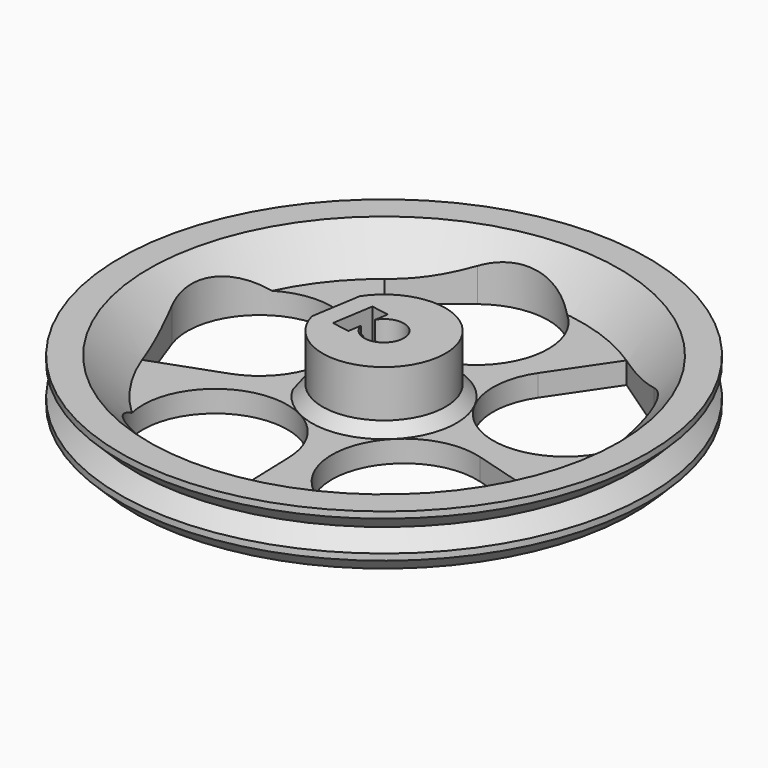
from build123d import *

# Parameters (mm, degrees)
PAD_DEPTH              = 2.5
CYLINDER001_R          = 1.75
CYLINDER001_DEPTH      = 10
CYLINDER001_ROLL_ANGLE = 90
BOX_W                  = 6
BOX_H                  = 3
BOX_DEPTH              = 7.5
SKETCH003_R            = 2.75
PAD001_DEPTH           = 8
CHAMFER_SIZE           = 1.5
POCKET_DEPTH           = 218.644926
POLARPATTERN_COUNT     = 5


with BuildPart() as captive_nut:
    # Sketch002 → Pad (new body)
    with BuildSketch(Plane.XZ):
        Polygon((-2.875, 5), (2.875, 5), (2.875, -1.659882), (0, -3.319764), (-2.875, -1.659882), align=None)
    extrude(amount=PAD_DEPTH)


with BuildPart() as captive_nut_1:
    # Clone placement: moved
    add(captive_nut.part.moved(Location((0, -3.75, 2))))


with BuildPart() as captive_nut_screw_fusion:
    # Cylinder001 → Cylinder001 (new body)
    with BuildSketch(Plane.XY):
        Circle(CYLINDER001_R)
    extrude(amount=CYLINDER001_DEPTH)


with BuildPart() as captive_nut_screw_fusion_1:
    # Cylinder001 roll: moved
    add(captive_nut_screw_fusion.part.rotate(Axis((0, 0, 0), (1, 0, 0)), CYLINDER001_ROLL_ANGLE))


with BuildPart() as captive_nut_screw_fusion_2:
    # Cylinder001 placement: moved
    add(captive_nut_screw_fusion_1.part.moved(Location((0, 0, 2))))

    # Fusion: union captive-nut
    add(captive_nut_1.part)


with BuildPart() as captive_nut_screw_fusion_3:
    # Fusion placement: moved
    add(captive_nut_screw_fusion_2.part.moved(Location((0, 1.2, 0))))


with BuildPart() as shaft_recess_cube:
    # Box → Box (new body)
    with BuildSketch(Plane(origin=(-3, 1.625, -3), x_dir=(1, 0, 0), z_dir=(0, 0, 1))):
        with Locations((3, 1.5)):
            Rectangle(BOX_W, BOX_H)
    extrude(amount=BOX_DEPTH)


with BuildPart() as polarpattern:
    # Sketch → Revolution (revolve)
    with BuildSketch(Plane.XZ):
        Polygon((0, -2), (27.5, -2), (32.5, 3), (36.5, 3), (36.5, 2.12132), (34.37868, 0), (36.5, -2.12132), (36.5, -3), (34.5, -5), (0, -5), align=None)
    revolve(axis=Axis((0, 0, 0), (0, 0, 1)))

    # Sketch003 → Pad001 (new body)
    with BuildSketch(Plane(origin=(0, 0, -2), x_dir=(-1, 0, 0), z_dir=(0, 0, 1))):
        with BuildLine():
            ThreePointArc((-3.49106, 7.75), (0, -8.5), (3.49106, 7.75))
            Line((3.49106, 7.75), (-3.49106, 7.75))
        make_face()
        Circle(SKETCH003_R, mode=Mode.SUBTRACT)
    extrude(amount=PAD001_DEPTH)

    # Fusion001: union shaft-recess-cube
    add(shaft_recess_cube.part)

    # Cut: cut captive-nut-screw-fusion
    add(captive_nut_screw_fusion_3.part, mode=Mode.SUBTRACT)

    # Chamfer
    chamfer_edges = [polarpattern.edges().sort_by_distance(p)[0] for p in [
        (0, 8.5, -2),
    ]]
    chamfer(chamfer_edges, length=CHAMFER_SIZE)

    # Sketch004 → Pocket (cut, through all)
    with BuildSketch(Plane(origin=(0, 0, -5), x_dir=(1, 0, 0), z_dir=(0, 0, -1))):
        with BuildLine():
            ThreePointArc((-8.749102, 15.157148), (9.610963, 17.237864), (-4.842852, 28.749102))
            Line((-13.591954, 23.90625), (-4.842852, 28.749102))
            Line((-8.749102, 15.157148), (-13.591954, 23.90625))
        make_face()
    pocket = extrude(amount=-POCKET_DEPTH, mode=Mode.SUBTRACT)

    # PolarPattern: Pocket ×5 about axis
    polarpattern_axis = Axis((0, 0, -5), (0, 0, -1))
    for i in range(1, POLARPATTERN_COUNT):
        add(pocket.rotate(polarpattern_axis, i * 360 / POLARPATTERN_COUNT), mode=Mode.SUBTRACT)


with BuildPart() as mirror_of_polarpattern:
    # mirror: instance of PolarPattern
    add(polarpattern.part.mirror(Plane(origin=(0, 0, 0), x_dir=(-0.760991, -0.648762, 0), z_dir=(0.648762, -0.760991, 0))))


solid = mirror_of_polarpattern.part
